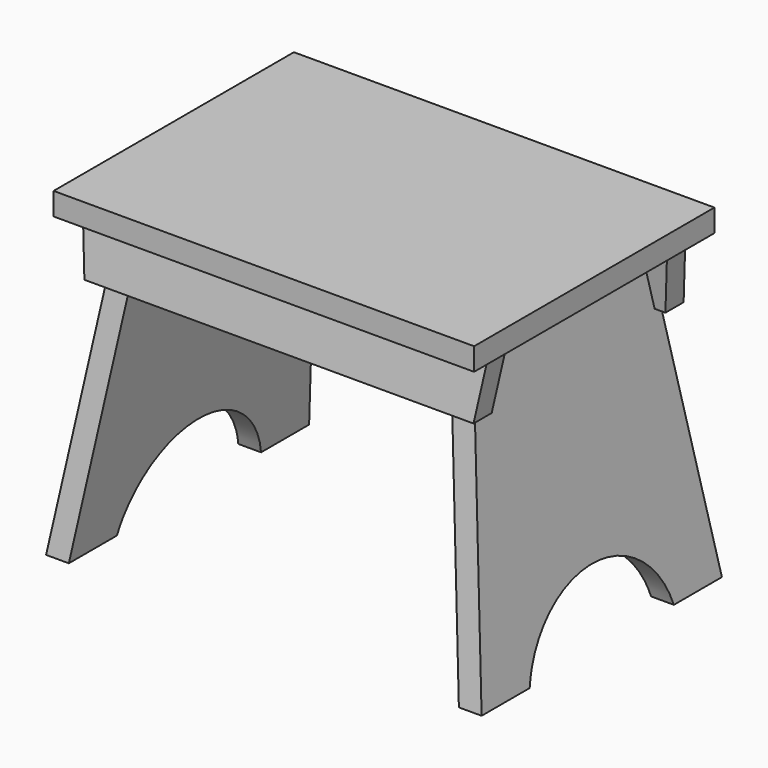
from build123d import *

# Parameters (mm, degrees)
F1_DEPTH      = 127
F2_DEPTH      = 127
F2_DEPTH_BACK = 127
F4_DEPTH      = 184.151
F4_DEPTH_BACK = 184.151
F6_DEPTH      = 177.8
F6_DEPTH_BACK = 177.8
F7_DEPTH      = 127.001
F7_DEPTH_BACK = 127.001


with BuildPart() as f1:
    # F0 (on Front) → F1 (new body, symmetric)
    with BuildSketch(Plane.XZ):
        Polygon((177.8, 9.525), (-177.8, 9.525), (-177.8, -9.525), (-171.45, -9.525), (-148.4526279856, -9.525), (-129.2154127291, -9.525), (129.2154127291, -9.525), (148.4526279856, -9.525), (171.45, -9.525), (177.8, -9.525), align=None)
    extrude(amount=F1_DEPTH, both=True)


with BuildPart() as f2:
    # F0 (on Front) → F2 (new body, two sides)
    with BuildSketch(Plane.XZ) as f2_sk:
        Polygon((-136.1406175943, -58.8003930194), (-155.3778328508, -58.8003930194), (-184.15, -263.525), (-164.9127847435, -263.525), align=None)
        Polygon((-129.2154127291, -9.525), (-148.4526279856, -9.525), (-155.3778328508, -58.8003930194), (-136.1406175943, -58.8003930194), align=None)
    extrude(amount=F2_DEPTH)
    extrude(f2_sk.sketch, amount=-F2_DEPTH_BACK)


with BuildPart() as f2b:
    # F0 (on Front) → F2, piece 2 (new body, two sides)
    with BuildSketch(Plane.XZ) as f2_2_sk:
        Polygon((155.3778328508, -58.8003930194), (148.4526279856, -9.525), (129.2154127291, -9.525), (136.1406175943, -58.8003930194), align=None)
        Polygon((184.15, -263.525), (155.3778328508, -58.8003930194), (136.1406175943, -58.8003930194), (164.9127847435, -263.525), align=None)
    extrude(amount=F2_DEPTH)
    extrude(f2_2_sk.sketch, amount=-F2_DEPTH_BACK)


with BuildPart() as f4_tool:
    # F3 (on Right) → F4 (new body, two sides)
    with BuildSketch(Plane.YZ) as f4_sk:
        Polygon((-127, -263.525), (-91.3026279856, -9.525), (-127, -9.525), align=None)
        Polygon((127, -263.525), (127, -9.525), (91.3026279856, -9.525), align=None)
        with BuildLine():
            Line((-76.2, -263.525), (76.2, -263.525))
            ThreePointArc((76.2, -263.525), (0, -204.5948043473), (-76.2, -263.525))
        make_face()
    extrude(amount=-F4_DEPTH)
    extrude(f4_sk.sketch, amount=F4_DEPTH_BACK)


with BuildPart() as f2_1:
    add(f2.part)

    # F4: cut by f4_tool
    add(f4_tool.part, mode=Mode.SUBTRACT)


with BuildPart() as f2b_1:
    add(f2b.part)

    # F4: cut by f4_tool
    add(f4_tool.part, mode=Mode.SUBTRACT)


with BuildPart() as f6:
    # F5 (on Right) → F6 (new body, two sides)
    with BuildSketch(Plane.YZ) as f6_sk:
        Polygon((-111.0526430218, -58.8003930194), (-98.2278328508, -58.8003930194), (-91.3026279856, -9.525), (-104.1274381566, -9.525), align=None)
        Polygon((-91.8154277653, -58.8003930194), (-84.8902229001, -9.525), (-91.3026279858, -9.525), (-98.2278328508, -58.8003930194), align=None)
    extrude(amount=F6_DEPTH)
    extrude(f6_sk.sketch, amount=-F6_DEPTH_BACK)


with BuildPart() as f6b:
    # F5 (on Right) → F6, piece 2 (new body, two sides)
    with BuildSketch(Plane.YZ) as f6_2_sk:
        Polygon((91.8154277653, -58.8003930194), (98.2278328508, -58.8003930194), (91.3026279856, -9.525), (84.8902229001, -9.525), align=None)
        Polygon((91.3026279856, -9.525), (98.2278328508, -58.8003930194), (111.0526430218, -58.8003930194), (104.1274381566, -9.525), align=None)
    extrude(amount=F6_DEPTH)
    extrude(f6_2_sk.sketch, amount=-F6_DEPTH_BACK)


with BuildPart() as f7_tool:
    # F0 (on Front) → F7 (new body, two sides)
    with BuildSketch(Plane.XZ) as f7_sk:
        Polygon((177.8, -58.8003930194), (177.8, -9.525), (171.45, -9.525), (164.5247951348, -58.8003930194), align=None)
        Polygon((-171.45, -9.525), (-177.8, -9.525), (-177.8, -58.8003930194), (-164.5247951348, -58.8003930194), align=None)
    extrude(amount=-F7_DEPTH)
    extrude(f7_sk.sketch, amount=F7_DEPTH_BACK)


with BuildPart() as f6_1:
    add(f6.part)

    # F7: cut by f7_tool
    add(f7_tool.part, mode=Mode.SUBTRACT)

    # F8: cut F2, F2b
    add(f2_1.part, mode=Mode.SUBTRACT)
    add(f2b_1.part, mode=Mode.SUBTRACT)


with BuildPart() as f6b_1:
    add(f6b.part)

    # F7: cut by f7_tool
    add(f7_tool.part, mode=Mode.SUBTRACT)

    # F8: cut F2, F2b
    add(f2_1.part, mode=Mode.SUBTRACT)
    add(f2b_1.part, mode=Mode.SUBTRACT)


solid = Compound([f1.part, f2_1.part, f2b_1.part, f6_1.part, f6b_1.part])
